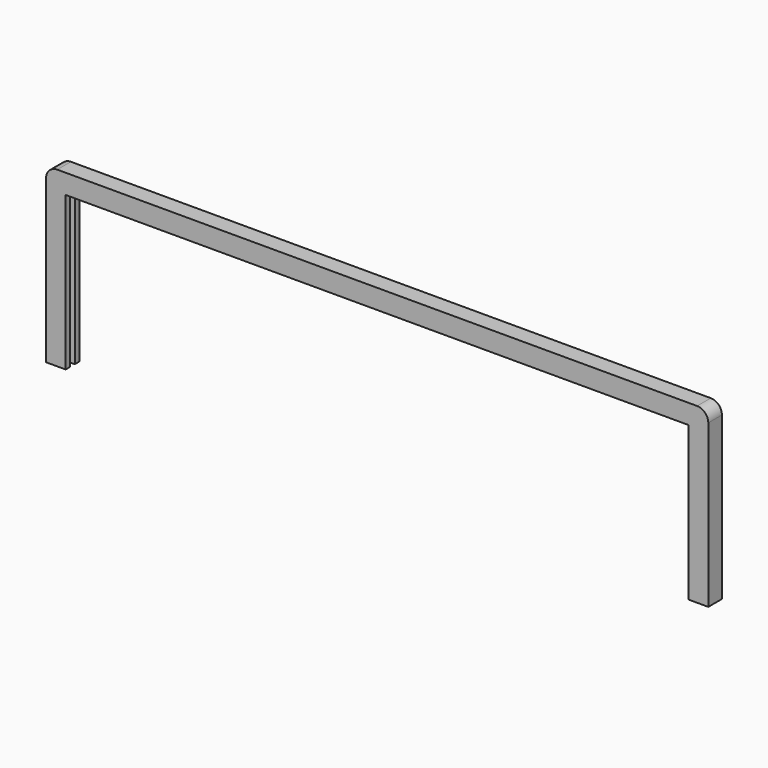
from build123d import *

# Parameters (mm, degrees)
F1_DEPTH = 2
F3_DEPTH = 2.1
F5_DEPTH = 2
F6_R     = 4


with BuildPart() as f1:
    # F0 (on Front) → F1 (new body)
    with BuildSketch(Plane.XZ):
        Polygon((-118.5, 62), (-118.5, 0), (-111.5, 0), (-111.5, 55), (111.5, 55), (111.5, 0), (118.5, 0), (118.5, 62), align=None)
    extrude(amount=F1_DEPTH)

    # F2 (on face) → F3 (join)
    with BuildSketch(Plane.XZ.offset(2)):
        Polygon((-118.5, 62), (-118.5, 0), (-116.6, 0), (-116.6, 59.4), (116.6, 59.4), (116.6, 0), (118.5, 0), (118.5, 62), align=None)
    extrude(amount=F3_DEPTH)

    # F4 (on face) → F5 (join)
    with BuildSketch(Plane.XZ.offset(4.1)):
        Polygon((-118.5, 62), (-118.5, 0), (-111.5, 0), (-111.5, 55), (111.5, 55), (111.5, 0), (118.5, 0), (118.5, 62), align=None)
    extrude(amount=F5_DEPTH)

    # F6
    f6_edges = [f1.edges().sort_by_distance(p)[0] for p in [
        (-118.5, -3.05, 62),
        (118.5, -3.05, 62),
    ]]
    fillet(f6_edges, radius=F6_R)


solid = f1.part
